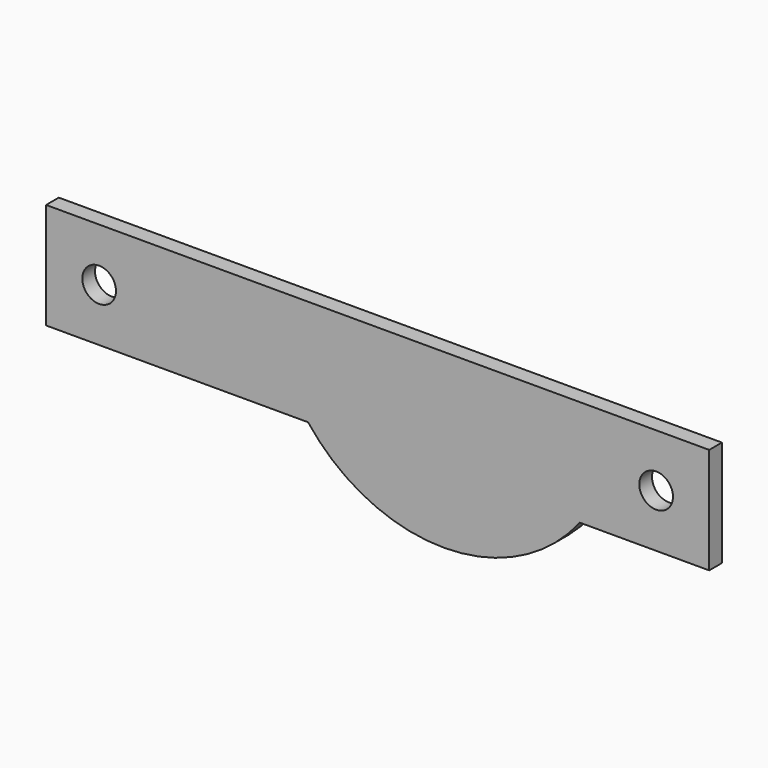
from build123d import *

# Parameters (mm, degrees)
SKETCH_R  = 6.35
PAD_DEPTH = 6


with BuildPart() as part:
    # Sketch → Pad (new body)
    with BuildSketch(Plane.XZ):
        with BuildLine():
            Line((0, 0), (250, 0))
            Line((250, 0), (250, -40))
            Line((250, -40), (201.234754, -40))
            ThreePointArc((98.765246, -40), (150, -65), (201.234754, -40))
            Line((98.765246, -40), (0, -40))
            Line((0, 0), (0, -40))
        make_face()
        with Locations((20, -20)):
            Circle(SKETCH_R, mode=Mode.SUBTRACT)
        with Locations((230, -20)):
            Circle(SKETCH_R, mode=Mode.SUBTRACT)
    extrude(amount=PAD_DEPTH)


solid = part.part
